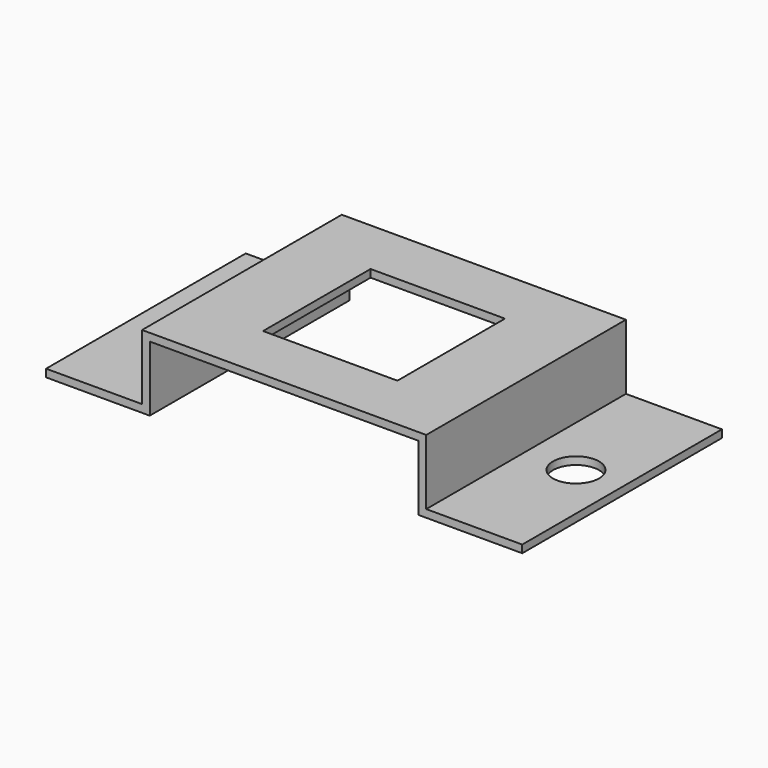
from build123d import *

# Parameters (mm, degrees)
F1_DEPTH = 2
F2_DEPTH = 19
F3_W     = 65
F3_H     = 2
F4_DEPTH = 25
F5_R     = 6
F6_DEPTH = 2.001


with BuildPart() as f1:
    # F0 (on Top) → F1 (new body)
    with BuildSketch(Plane.XY):
        Polygon((0, 32.5), (0, 17.5), (17.5, 17.5), (17.5, -17.5), (0, -17.5), (0, -32.5), (35, -32.5), (35, 0), (35, 32.5), align=None)
    extrude(amount=-F1_DEPTH)

    # F0 (on Top) → F2 (join)
    with BuildSketch(Plane.XY):
        Polygon((37, 32.5), (35, 32.5), (35, 0), (35, -32.5), (37, -32.5), align=None)
    extrude(amount=-F2_DEPTH)

    # F3 (on face) → F4 (join)
    with BuildSketch(Plane.YZ.offset(37)):
        with Locations((0, -18)):
            Rectangle(F3_W, F3_H)
    extrude(amount=F4_DEPTH)

    # F5 (on face) → F6 (cut, through all)
    with BuildSketch(Plane.XY.offset(-17)):
        with Locations((50, 0)):
            Circle(F5_R)
    extrude(amount=-F6_DEPTH, mode=Mode.SUBTRACT)

    # F7: F1 across face


with BuildPart() as f1_1:
    add(f1.part)
    add(f1.part.mirror(Plane(origin=(0, 25, -1), x_dir=(0, -1, 0), z_dir=(-1, 0, 0))))


solid = f1_1.part
